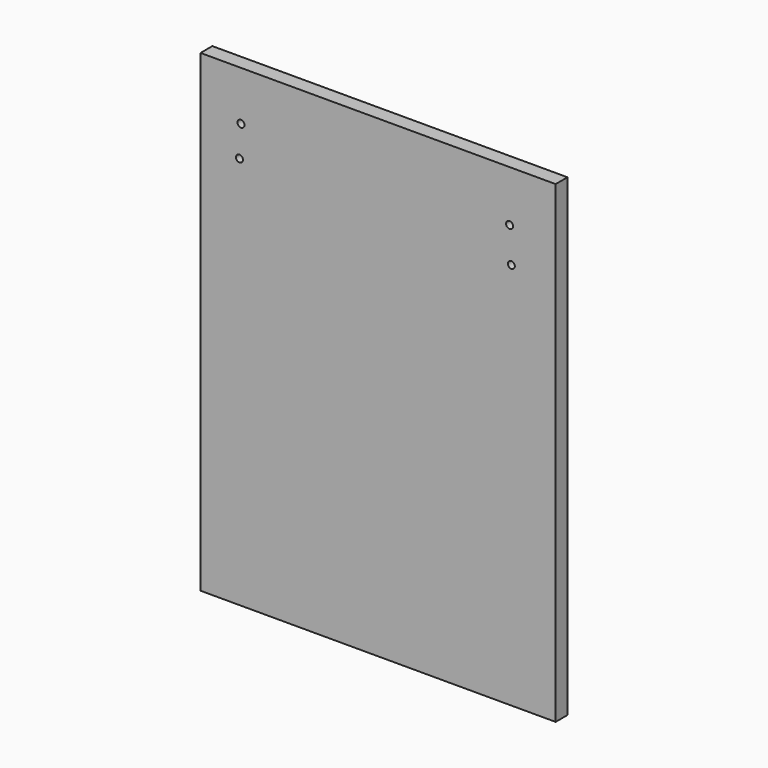
from build123d import *

# Parameters (mm, degrees)
F0_W     = 152.4
F0_H     = 203.2
F1_DEPTH = 6.35
F2_R     = 1.5
F3_R     = 1.5
F4_DEPTH = 14.2
F5_R     = 1.5
F6_DEPTH = 25
F7_R     = 1.5
F8_DEPTH = 25


with BuildPart() as f1:
    # F0 (on Front) → F1 (new body)
    with BuildSketch(Plane.XZ):
        Rectangle(F0_W, F0_H)
    extrude(amount=F1_DEPTH)

    # F2 (on Front) + F3 (on Front) → F4 (cut)
    with BuildSketch(Plane.XZ):
        with Locations((-58.833122, 80.499172)):
            Circle(F2_R)
    with BuildSketch(Plane.XZ):
        with Locations((-59.496228, 67.109719)):
            Circle(F3_R)
    extrude(amount=F4_DEPTH, mode=Mode.SUBTRACT)

    # F5 (on Front) → F6 (cut)
    with BuildSketch(Plane.XZ):
        with Locations((57.177279, 77.691041)):
            Circle(F5_R)
        with Locations((57.177279, 64.519793)):
            Circle(F5_R)
    extrude(amount=-F6_DEPTH, mode=Mode.SUBTRACT)

    # F7 (on face) → F8 (cut)
    with BuildSketch(Plane.XZ.offset(6.35)):
        with Locations((56.429084, 79.715557)):
            Circle(F7_R)
        with Locations((57.184231, 64.864337)):
            Circle(F7_R)
    extrude(amount=-F8_DEPTH, mode=Mode.SUBTRACT)


solid = f1.part
